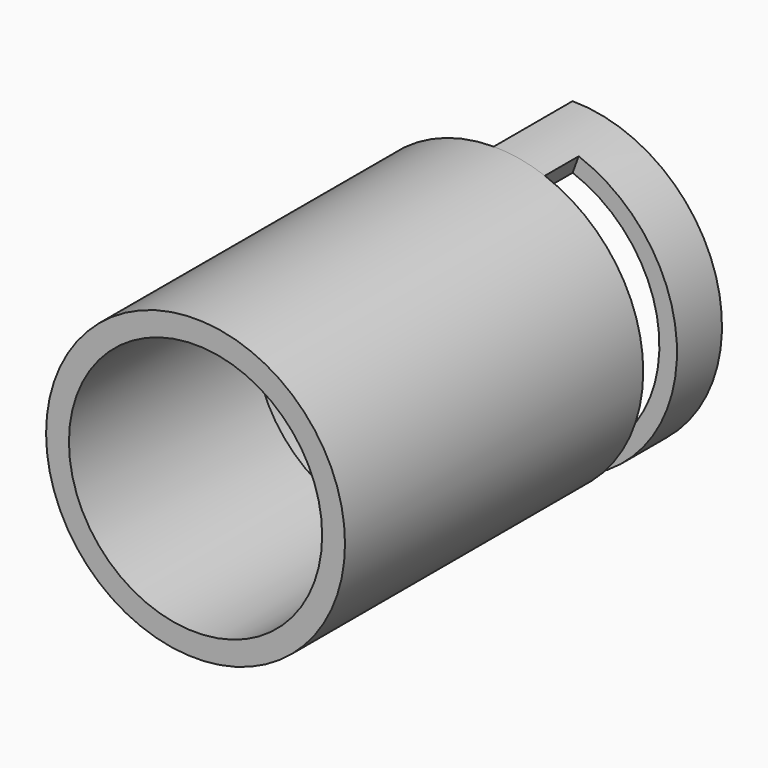
from build123d import *

# Parameters (mm, degrees)
F0_R        = 21.25
F0_R_2      = 18.75
F1_DEPTH    = 20
F3_R        = 21.25
F3_R_2      = 18
F4_DEPTH    = 25
F4_FACE_R   = 21.25
F4_FACE_R_2 = 18
F5_DEPTH    = 8
F7_W        = 6
F7_H        = 2.5
F8_ANGLE    = 20
F9_W        = 8
F9_H        = 2.5
F10_ANGLE   = 190


with BuildPart() as f1:
    # F0 (on Front) → F1 (new body)
    with BuildSketch(Plane.XZ):
        Circle(F0_R)
        Circle(F0_R_2, mode=Mode.SUBTRACT)
    extrude(amount=F1_DEPTH)


with BuildPart() as f4:
    # F3 (on offset) → F4 (new body)
    with BuildSketch(Plane.XZ.offset(28)):
        Circle(F3_R)
        Circle(F3_R_2, mode=Mode.SUBTRACT)
    extrude(amount=F4_DEPTH)


with BuildPart() as f5:
    # F4_face (on face) → F5 (new body, through all)
    with BuildSketch(Plane(origin=(0, -28, 0), x_dir=(1, 0, 0), z_dir=(0, 1, 0))):
        Circle(F4_FACE_R)
        Circle(F4_FACE_R_2, mode=Mode.SUBTRACT)
    extrude(amount=F5_DEPTH)


with BuildPart() as f1_1:
    add(f1.part)

    # F6: union F4, F5
    add(f4.part)
    add(f5.part)

    # F7 (on Right) → F8 (revolve)
    with BuildSketch(Plane.YZ):
        with Locations((3, 20)):
            Rectangle(F7_W, F7_H)
    revolve(axis=Axis((0, 6.62554, 0), (0, 1, 0)), revolution_arc=F8_ANGLE)

    # F9 (on face) → F10 (revolve)
    with BuildSketch(Plane(origin=(0, 0, 0), x_dir=(0, -1, 0), z_dir=(-1, 0, 0))):
        with Locations((-10, 20)):
            Rectangle(F9_W, F9_H)
    revolve(axis=Axis((0, 8.909439, 0), (0, 1, 0)), revolution_arc=F10_ANGLE)


solid = f1_1.part
